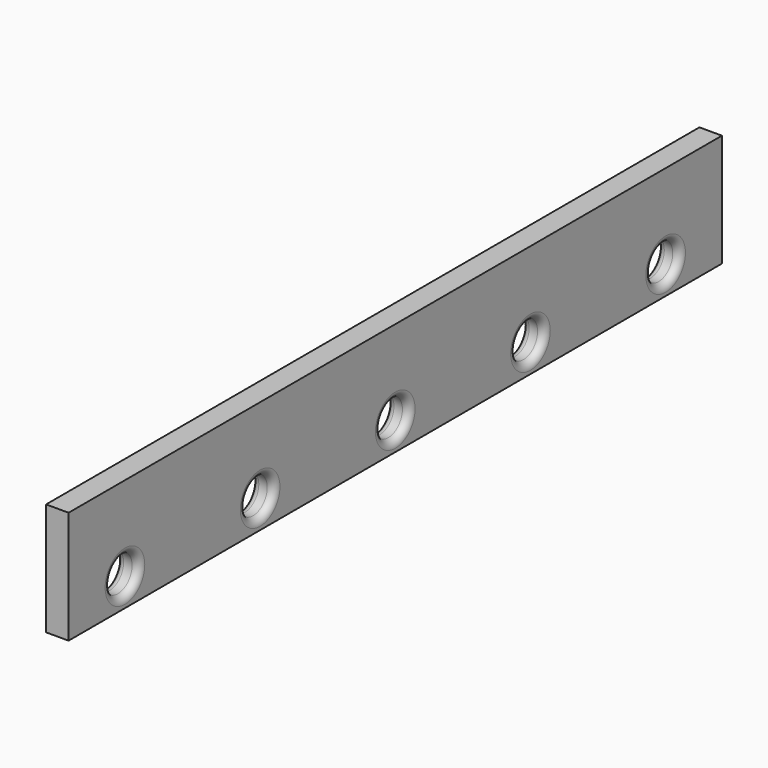
from build123d import *

# Parameters (mm, degrees)
F0_W     = 580
F0_H     = 80
F0_R     = 12.6
F1_DEPTH = 16
F2_R     = 5


with BuildPart() as f1:
    # F0 (on Right) → F1 (new body)
    with BuildSketch(Plane.YZ):
        Rectangle(F0_W, F0_H)
        with Locations((-240, -20)):
            Circle(F0_R, mode=Mode.SUBTRACT)
        with Locations((-120, -20)):
            Circle(F0_R, mode=Mode.SUBTRACT)
        with Locations((0, -20)):
            Circle(F0_R, mode=Mode.SUBTRACT)
        with Locations((120, -20)):
            Circle(F0_R, mode=Mode.SUBTRACT)
        with Locations((240, -20)):
            Circle(F0_R, mode=Mode.SUBTRACT)
    extrude(amount=F1_DEPTH)

    # F2
    f2_edges = [f1.edges().sort_by_distance(p)[0] for p in [
        (0, -132.6, -20),
        (8, -107.4, -20),
        (16, -132.6, -20),
        (16, -252.6, -20),
        (8, -227.4, -20),
        (0, -252.6, -20),
        (0, -12.6, -20),
        (16, -12.6, -20),
        (0, 107.4, -20),
        (16, 107.4, -20),
        (16, 227.4, -20),
        (0, 227.4, -20),
    ]]
    fillet(f2_edges, radius=F2_R)


solid = f1.part
